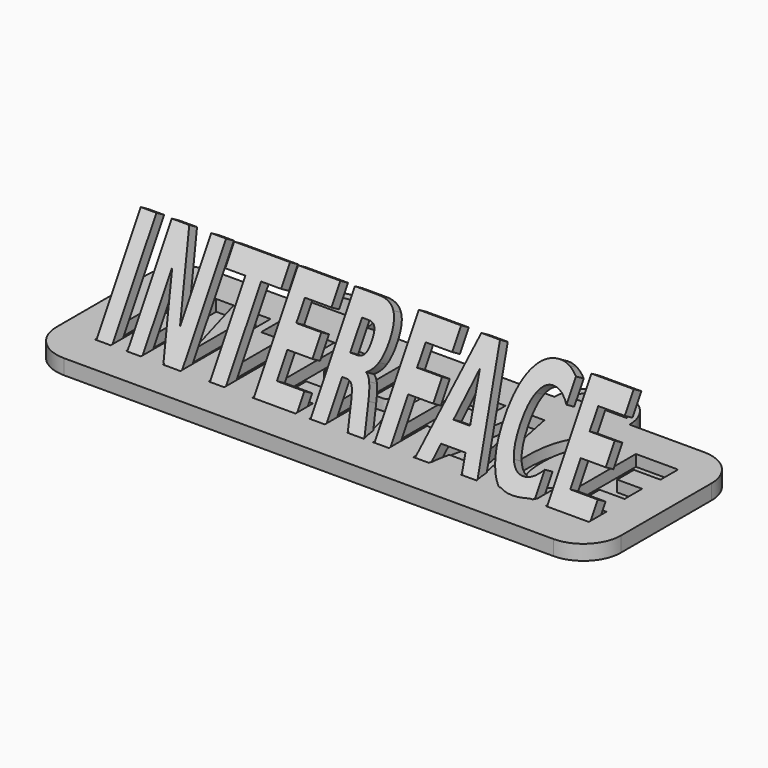
from build123d import *

# Parameters (mm, degrees)
EXTRUDE003_DEPTH     = 3
EXTRUDE010_DEPTH     = 3
EXTRUDE006_DEPTH     = 3
EXTRUDE001_DEPTH     = 3
EXTRUDE004_DEPTH     = 3
EXTRUDE005_DEPTH     = 3
EXTRUDE002_DEPTH     = 3
EXTRUDE009_DEPTH     = 3
EXTRUDE_DEPTH        = 3
EXTRUDE008_DEPTH     = 3
EXTRUDE007_DEPTH     = 3
EXTRUDE011_DEPTH     = 4
PAD_DEPTH            = 4
EXTRUDE015_DEPTH     = 3
EXTRUDE022_DEPTH     = 3
EXTRUDE018_DEPTH     = 3
EXTRUDE013_DEPTH     = 3
EXTRUDE016_DEPTH     = 3
EXTRUDE017_DEPTH     = 3
EXTRUDE014_DEPTH     = 3
EXTRUDE021_DEPTH     = 3
EXTRUDE012_DEPTH     = 3
EXTRUDE020_DEPTH     = 3
EXTRUDE019_DEPTH     = 3
FUSION001_ROLL_ANGLE = 59.5259


with BuildPart() as extrude003:
    # path3417 → Extrude003 (new body)
    with BuildSketch(Plane(origin=(77.497303, -65.455557, 0), x_dir=(0, -1, 0), z_dir=(0, 0, -1))):
        with BuildLine():
            add(Edge.make_bspline(
                [(-14.971756, 5.721334), (-14.971756, -5.484069)],
                knots=[0, 0, 54.14418, 54.14418], degree=1))
            add(Edge.make_bspline(
                [(-14.971756, -5.484069), (-9.135482, -5.484069)],
                knots=[0, 0, 15.16453, 15.16453], degree=1))
            add(Edge.make_bspline(
                [(-9.135482, -5.484069), (-9.135482, 1.569188)],
                knots=[0, 0, 34.08113, 34.08113], degree=1))
            add(Edge.make_bspline(
                [(-9.135482, 1.569188), (-3.55993, 1.569188)],
                knots=[0, 0, 14.48709, 14.48709], degree=1))
            add(Edge.make_bspline(
                [(-3.55993, 1.569188), (-3.55993, -5.063462)],
                knots=[0, 0, 32.04877, 32.04877], degree=1))
            add(Edge.make_bspline(
                [(-3.55993, -5.063462), (2.276348, -5.063462)],
                knots=[0, 0, 15.16454, 15.16454], degree=1))
            add(Edge.make_bspline(
                [(2.276348, -5.063462), (2.276348, 1.569188)],
                knots=[0, 0, 32.04877, 32.04877], degree=1))
            add(Edge.make_bspline(
                [(2.276348, 1.569188), (9.135478, 1.569188)],
                knots=[0, 0, 17.82224, 17.82224], degree=1))
            add(Edge.make_bspline(
                [(9.135478, 1.569188), (9.135478, -5.721334)],
                knots=[0, 0, 35.22759, 35.22759], degree=1))
            add(Edge.make_bspline(
                [(9.135478, -5.721334), (14.971756, -5.721334)],
                knots=[0, 0, 15.16454, 15.16454], degree=1))
            add(Edge.make_bspline(
                [(14.971756, -5.721334), (14.971756, 5.721334)],
                knots=[0, 0, 55.29064, 55.29064], degree=1))
            add(Edge.make_bspline(
                [(14.971756, 5.721334), (-14.971756, 5.721334)],
                knots=[0, 0, 77.80294, 77.80294], degree=1))
        make_face()
    extrude(amount=-EXTRUDE003_DEPTH)


with BuildPart() as extrude010:
    # path3427 → Extrude010 (new body)
    with BuildSketch(Plane(origin=(155.449799, -65.455557, 0), x_dir=(0, -1, 0), z_dir=(0, 0, -1))):
        with BuildLine():
            add(Edge.make_bspline(
                [(-14.971756, 5.721334), (-14.971756, -5.484069)],
                knots=[0, 0, 54.14418, 54.14418], degree=1))
            add(Edge.make_bspline(
                [(-14.971756, -5.484069), (-9.135482, -5.484069)],
                knots=[0, 0, 15.16453, 15.16453], degree=1))
            add(Edge.make_bspline(
                [(-9.135482, -5.484069), (-9.135482, 1.569188)],
                knots=[0, 0, 34.08113, 34.08113], degree=1))
            add(Edge.make_bspline(
                [(-9.135482, 1.569188), (-3.55993, 1.569188)],
                knots=[0, 0, 14.48709, 14.48709], degree=1))
            add(Edge.make_bspline(
                [(-3.55993, 1.569188), (-3.55993, -5.063462)],
                knots=[0, 0, 32.04877, 32.04877], degree=1))
            add(Edge.make_bspline(
                [(-3.55993, -5.063462), (2.276348, -5.063462)],
                knots=[0, 0, 15.16454, 15.16454], degree=1))
            add(Edge.make_bspline(
                [(2.276348, -5.063462), (2.276348, 1.569188)],
                knots=[0, 0, 32.04877, 32.04877], degree=1))
            add(Edge.make_bspline(
                [(2.276348, 1.569188), (9.135478, 1.569188)],
                knots=[0, 0, 17.82224, 17.82224], degree=1))
            add(Edge.make_bspline(
                [(9.135478, 1.569188), (9.135478, -5.721334)],
                knots=[0, 0, 35.22759, 35.22759], degree=1))
            add(Edge.make_bspline(
                [(9.135478, -5.721334), (14.971756, -5.721334)],
                knots=[0, 0, 15.16454, 15.16454], degree=1))
            add(Edge.make_bspline(
                [(14.971756, -5.721334), (14.971756, 5.721334)],
                knots=[0, 0, 55.29064, 55.29064], degree=1))
            add(Edge.make_bspline(
                [(14.971756, 5.721334), (-14.971756, 5.721334)],
                knots=[0, 0, 77.80294, 77.80294], degree=1))
        make_face()
    extrude(amount=-EXTRUDE010_DEPTH)


with BuildPart() as extrude006:
    # path3421 → Extrude006 (new body)
    with BuildSketch(Plane(origin=(109.47422, -65.455557, 0), x_dir=(0, -1, 0), z_dir=(0, 0, -1))):
        with BuildLine():
            add(Edge.make_bspline(
                [(-14.971756, 5.6027), (-14.971756, -5.6027)],
                knots=[0, 0, 54.14417, 54.14417], degree=1))
            add(Edge.make_bspline(
                [(-14.971756, -5.6027), (-9.135482, -5.6027)],
                knots=[0, 0, 15.16453, 15.16453], degree=1))
            add(Edge.make_bspline(
                [(-9.135482, -5.6027), (-9.135482, 1.450554)],
                knots=[0, 0, 34.08112, 34.08112], degree=1))
            add(Edge.make_bspline(
                [(-9.135482, 1.450554), (-3.55993, 1.450554)],
                knots=[0, 0, 14.48709, 14.48709], degree=1))
            add(Edge.make_bspline(
                [(-3.55993, 1.450554), (-3.55993, -5.182093)],
                knots=[0, 0, 32.04876, 32.04876], degree=1))
            add(Edge.make_bspline(
                [(-3.55993, -5.182093), (2.276348, -5.182093)],
                knots=[0, 0, 15.16454, 15.16454], degree=1))
            add(Edge.make_bspline(
                [(2.276348, -5.182093), (2.276348, 1.450554)],
                knots=[0, 0, 32.04876, 32.04876], degree=1))
            add(Edge.make_bspline(
                [(2.276348, 1.450554), (14.971756, 1.450554)],
                knots=[0, 0, 32.98678, 32.98678], degree=1))
            add(Edge.make_bspline(
                [(14.971756, 1.450554), (14.971756, 5.6027)],
                knots=[0, 0, 20.06305, 20.06305], degree=1))
            add(Edge.make_bspline(
                [(14.971756, 5.6027), (-14.971756, 5.6027)],
                knots=[0, 0, 77.80294, 77.80294], degree=1))
        make_face()
    extrude(amount=-EXTRUDE006_DEPTH)


with BuildPart() as extrude001:
    # path3413 → Extrude001 (new body)
    with BuildSketch(Plane(origin=(45.428715, -65.455557, 0), x_dir=(0, -1, 0), z_dir=(0, 0, -1))):
        with BuildLine():
            add(Edge.make_bspline(
                [(-14.971756, 7.215028), (-14.971756, 2.577566)],
                knots=[0, 0, 22.40808, 22.40808], degree=1))
            add(Edge.make_bspline(
                [(-14.971756, 2.577566), (5.565519, -3.278578)],
                knots=[0, 0, 60.400825, 60.400825], degree=1))
            add(Edge.make_bspline(
                [(5.565519, -3.278578), (-14.971756, -3.278578)],
                knots=[0, 0, 53.36249, 53.36249], degree=1))
            add(Edge.make_bspline(
                [(-14.971756, -3.278578), (-14.971756, -7.215028)],
                knots=[0, 0, 19.02081, 19.02081], degree=1))
            add(Edge.make_bspline(
                [(-14.971756, -7.215028), (14.971756, -7.215028)],
                knots=[0, 0, 77.80294, 77.80294], degree=1))
            add(Edge.make_bspline(
                [(14.971756, -7.215028), (14.971756, -2.577566)],
                knots=[0, 0, 22.40808, 22.40808], degree=1))
            add(Edge.make_bspline(
                [(14.971756, -2.577566), (-5.565523, 3.278576)],
                knots=[0, 0, 60.400829, 60.400829], degree=1))
            add(Edge.make_bspline(
                [(-5.565523, 3.278576), (14.971756, 3.278576)],
                knots=[0, 0, 53.3625, 53.3625], degree=1))
            add(Edge.make_bspline(
                [(14.971756, 3.278576), (14.971756, 7.215028)],
                knots=[0, 0, 19.02082, 19.02082], degree=1))
            add(Edge.make_bspline(
                [(14.971756, 7.215028), (-14.971756, 7.215028)],
                knots=[0, 0, 77.80294, 77.80294], degree=1))
        make_face()
    extrude(amount=-EXTRUDE001_DEPTH)


with BuildPart() as extrude004:
    # path3419 → Extrude004 (new body)
    with BuildSketch(Plane(origin=(93.119076, -59.920118, 0), x_dir=(0, 1, 0), z_dir=(0, 0, 1))):
        with BuildLine():
            add(Edge.make_bspline(
                [(-3.840713, 0.345113), (-3.840713, -0.959847), (-2.938196, -1.520656)],
                knots=[0, 0, 0, 1, 1, 1], degree=2))
            add(Edge.make_bspline(
                [(-2.938196, -1.520656), (-2.035676, -2.092251), (0.030083, -2.092251)],
                knots=[0, 0, 0, 1, 1, 1], degree=2))
            add(Edge.make_bspline(
                [(0.030083, -2.092251), (2.07579, -2.092251), (2.958251, -1.520656)],
                knots=[0, 0, 0, 1, 1, 1], degree=2))
            add(Edge.make_bspline(
                [(2.958251, -1.520656), (3.840713, -0.959847), (3.840713, 0.345113)],
                knots=[0, 0, 0, 1, 1, 1], degree=2))
            add(Edge.make_bspline(
                [(3.840713, 0.345113), (3.840713, 2.092251)],
                knots=[0, 0, 8.44212, 8.44212], degree=1))
            add(Edge.make_bspline(
                [(3.840713, 2.092251), (-3.840713, 2.092251)],
                knots=[0, 0, 19.95883, 19.95883], degree=1))
            add(Edge.make_bspline(
                [(-3.840713, 2.092251), (-3.840713, 0.345113)],
                knots=[0, 0, 8.44212, 8.44212], degree=1))
        make_face()
    extrude(amount=EXTRUDE004_DEPTH)


with BuildPart() as cut:
    # path3419001 → Extrude005 (new body)
    with BuildSketch(Plane(origin=(94.143631, -65.455557, 0), x_dir=(0, -1, 0), z_dir=(0, 0, -1))):
        with BuildLine():
            add(Edge.make_bspline(
                [(3.640151, 3.116806), (14.971756, 3.116806)],
                knots=[0, 0, 29.44318, 29.44318], degree=1))
            add(Edge.make_bspline(
                [(14.971756, 3.116806), (14.971756, 7.268952)],
                knots=[0, 0, 20.06305, 20.06305], degree=1))
            add(Edge.make_bspline(
                [(14.971756, 7.268952), (-14.971756, 7.268952)],
                knots=[0, 0, 77.80294, 77.80294], degree=1))
            add(Edge.make_bspline(
                [(-14.971756, 7.268952), (-14.971756, 0.927492)],
                knots=[0, 0, 30.64175, 30.64175], degree=1))
            add(Edge.make_bspline(
                [(-14.971756, 0.927492), (-14.971756, -2.254023), (-12.986218, -3.731538)],
                knots=[0, 0, 0, 1, 1, 1], degree=2))
            add(Edge.make_bspline(
                [(-12.986218, -3.731538), (-11.000681, -5.21984), (-6.708714, -5.21984)],
                knots=[0, 0, 0, 1, 1, 1], degree=2))
            add(Edge.make_bspline(
                [(-6.708714, -5.21984), (-3.740435, -5.21984), (-1.835122, -4.443335)],
                knots=[0, 0, 0, 1, 1, 1], degree=2))
            add(Edge.make_bspline(
                [(-1.835122, -4.443335), (0.070195, -3.677616), (0.972712, -2.124604)],
                knots=[0, 0, 0, 1, 1, 1], degree=2))
            add(Edge.make_bspline(
                [(0.972712, -2.124604), (1.333718, -2.976604), (2.617299, -3.645261)],
                knots=[0, 0, 0, 1, 1, 1], degree=2))
            add(Edge.make_bspline(
                [(2.617299, -3.645261), (3.880821, -4.324702), (6.468039, -5.01493)],
                knots=[0, 0, 0, 1, 1, 1], degree=2))
            add(Edge.make_bspline(
                [(6.468039, -5.01493), (14.971756, -7.268952)],
                knots=[0, 0, 24.633901, 24.633901], degree=1))
            add(Edge.make_bspline(
                [(14.971756, -7.268952), (14.971756, -2.847187)],
                knots=[0, 0, 21.36584, 21.36584], degree=1))
            add(Edge.make_bspline(
                [(14.971756, -2.847187), (7.531001, -0.884352)],
                knots=[0, 0, 21.534552, 21.534552], degree=1))
            add(Edge.make_bspline(
                [(7.531001, -0.884352), (5.284738, -0.291191), (4.462442, 0.323544)],
                knots=[0, 0, 0, 1, 1, 1], degree=2))
            add(Edge.make_bspline(
                [(4.462442, 0.323544), (3.640151, 0.927492), (3.640151, 1.941263)],
                knots=[0, 0, 0, 1, 1, 1], degree=2))
            add(Edge.make_bspline(
                [(3.640151, 1.941263), (3.640151, 3.116806)],
                knots=[0, 0, 5.68019, 5.68019], degree=1))
        make_face()
    extrude(amount=-EXTRUDE005_DEPTH)

    # Cut: cut Extrude004
    add(extrude004.part, mode=Mode.SUBTRACT)


with BuildPart() as extrude002:
    # path3415 → Extrude002 (new body)
    with BuildSketch(Plane(origin=(62.220643, -65.455557, 0), x_dir=(0, -1, 0), z_dir=(0, 0, -1))):
        with BuildLine():
            add(Edge.make_bspline(
                [(-14.971756, 7.419939), (-14.971756, -7.419939)],
                knots=[0, 0, 71.70586, 71.70586], degree=1))
            add(Edge.make_bspline(
                [(-14.971756, -7.419939), (-9.135482, -7.419939)],
                knots=[0, 0, 15.16453, 15.16453], degree=1))
            add(Edge.make_bspline(
                [(-9.135482, -7.419939), (-9.135482, -2.081465)],
                knots=[0, 0, 25.79535, 25.79535], degree=1))
            add(Edge.make_bspline(
                [(-9.135482, -2.081465), (14.971756, -2.081465)],
                knots=[0, 0, 62.63841, 62.63841], degree=1))
            add(Edge.make_bspline(
                [(14.971756, -2.081465), (14.971756, 2.070681)],
                knots=[0, 0, 20.06305, 20.06305], degree=1))
            add(Edge.make_bspline(
                [(14.971756, 2.070681), (-9.135482, 2.070681)],
                knots=[0, 0, 62.63841, 62.63841], degree=1))
            add(Edge.make_bspline(
                [(-9.135482, 2.070681), (-9.135482, 7.419939)],
                knots=[0, 0, 25.84746, 25.84746], degree=1))
            add(Edge.make_bspline(
                [(-9.135482, 7.419939), (-14.971756, 7.419939)],
                knots=[0, 0, 15.16453, 15.16453], degree=1))
        make_face()
    extrude(amount=-EXTRUDE002_DEPTH)


with BuildPart() as extrude009:
    # path3425 → Extrude009 (new body)
    with BuildSketch(Plane(origin=(139.428989, -65.475613, 0), x_dir=(0, -1, 0), z_dir=(0, 0, -1))):
        with BuildLine():
            add(Edge.make_bspline(
                [(13.307114, -6.848344), (14.41019, -5.705156), (14.971756, -4.464905)],
                knots=[0, 0, 0, 1, 1, 1], degree=2))
            add(Edge.make_bspline(
                [(14.971756, -4.464905), (15.533322, -3.224653), (15.533322, -1.876555)],
                knots=[0, 0, 0, 1, 1, 1], degree=2))
            add(Edge.make_bspline(
                [(15.533322, -1.876555), (15.533322, 2.146174), (11.361687, 4.49726)],
                knots=[0, 0, 0, 1, 1, 1], degree=2))
            add(Edge.make_bspline(
                [(11.361687, 4.49726), (7.169996, 6.848344), (0.010026, 6.848344)],
                knots=[0, 0, 0, 1, 1, 1], degree=2))
            add(Edge.make_bspline(
                [(0.010026, 6.848344), (-7.169999, 6.848344), (-11.341631, 4.49726)],
                knots=[0, 0, 0, 1, 1, 1], degree=2))
            add(Edge.make_bspline(
                [(-11.341631, 4.49726), (-15.533322, 2.146174), (-15.533322, -1.876555)],
                knots=[0, 0, 0, 1, 1, 1], degree=2))
            add(Edge.make_bspline(
                [(-15.533322, -1.876555), (-15.533322, -3.224653), (-14.971756, -4.464905)],
                knots=[0, 0, 0, 1, 1, 1], degree=2))
            add(Edge.make_bspline(
                [(-14.971756, -4.464905), (-14.41019, -5.705156), (-13.307114, -6.848344)],
                knots=[0, 0, 0, 1, 1, 1], degree=2))
            add(Edge.make_bspline(
                [(-13.307114, -6.848344), (-7.10983, -6.848344)],
                knots=[0, 0, 16.10255, 16.10255], degree=1))
            add(Edge.make_bspline(
                [(-7.10983, -6.848344), (-8.573912, -5.694372), (-9.255817, -4.572753)],
                knots=[0, 0, 0, 1, 1, 1], degree=2))
            add(Edge.make_bspline(
                [(-9.255817, -4.572753), (-9.937718, -3.451134), (-9.937718, -2.210882)],
                knots=[0, 0, 0, 1, 1, 1], degree=2))
            add(Edge.make_bspline(
                [(-9.937718, -2.210882), (-9.937718, 0.010784), (-7.290335, 1.283389)],
                knots=[0, 0, 0, 1, 1, 1], degree=2))
            add(Edge.make_bspline(
                [(-7.290335, 1.283389), (-4.642951, 2.555996), (0.010026, 2.555996)],
                knots=[0, 0, 0, 1, 1, 1], degree=2))
            add(Edge.make_bspline(
                [(0.010026, 2.555996), (4.642947, 2.555996), (7.290331, 1.283389)],
                knots=[0, 0, 0, 1, 1, 1], degree=2))
            add(Edge.make_bspline(
                [(7.290331, 1.283389), (9.937715, 0.010784), (9.937715, -2.210882)],
                knots=[0, 0, 0, 1, 1, 1], degree=2))
            add(Edge.make_bspline(
                [(9.937715, -2.210882), (9.937715, -3.451134), (9.255813, -4.572753)],
                knots=[0, 0, 0, 1, 1, 1], degree=2))
            add(Edge.make_bspline(
                [(9.255813, -4.572753), (8.573912, -5.694372), (7.10983, -6.848344)],
                knots=[0, 0, 0, 1, 1, 1], degree=2))
            add(Edge.make_bspline(
                [(7.10983, -6.848344), (13.307114, -6.848344)],
                knots=[0, 0, 16.10255, 16.10255], degree=1))
        make_face()
    extrude(amount=-EXTRUDE009_DEPTH)


with BuildPart() as extrude_body:
    # path3411 → Extrude (new body)
    with BuildSketch(Plane(origin=(32.050179, -65.455557, 0), x_dir=(0, -1, 0), z_dir=(0, 0, -1))):
        with BuildLine():
            add(Edge.make_bspline(
                [(-14.971756, 2.076073), (-14.971756, -2.076073)],
                knots=[0, 0, 20.06305, 20.06305], degree=1))
            add(Edge.make_bspline(
                [(-14.971756, -2.076073), (14.971756, -2.076073)],
                knots=[0, 0, 77.80294, 77.80294], degree=1))
            add(Edge.make_bspline(
                [(14.971756, -2.076073), (14.971756, 2.076073)],
                knots=[0, 0, 20.06305, 20.06305], degree=1))
            add(Edge.make_bspline(
                [(14.971756, 2.076073), (-14.971756, 2.076073)],
                knots=[0, 0, 77.80294, 77.80294], degree=1))
        make_face()
    extrude(amount=-EXTRUDE_DEPTH)


with BuildPart() as extrude008:
    # path3423001 → Extrude008 (new body)
    with BuildSketch(Plane(origin=(122.944427, -63.45999, 0), x_dir=(0, 1, 0), z_dir=(0, 0, 1))):
        with BuildLine():
            add(Edge.make_bspline(
                [(-5.956613, 2.20549), (-5.956613, -2.20549)],
                knots=[0, 0, 21.31373, 21.31373], degree=1))
            add(Edge.make_bspline(
                [(-5.956613, -2.20549), (5.956613, -0.005392)],
                knots=[0, 0, 32.729043, 32.729043], degree=1))
            add(Edge.make_bspline(
                [(5.956613, -0.005392), (-5.956613, 2.20549)],
                knots=[0, 0, 32.746006, 32.746006], degree=1))
        make_face()
    extrude(amount=EXTRUDE008_DEPTH)


with BuildPart() as fusion:
    # path3423 → Extrude007 (new body)
    with BuildSketch(Plane(origin=(122.944427, -65.455557, 0), x_dir=(0, -1, 0), z_dir=(0, 0, -1))):
        with BuildLine():
            add(Edge.make_bspline(
                [(9.516539, -3.251614), (9.516539, 3.240832)],
                knots=[0, 0, 31.37131, 31.37131], degree=1))
            add(Edge.make_bspline(
                [(9.516539, 3.240832), (14.971756, 4.265387)],
                knots=[0, 0, 15.014087, 15.014087], degree=1))
            add(Edge.make_bspline(
                [(14.971756, 4.265387), (14.971756, 8.439102)],
                knots=[0, 0, 20.16727, 20.16727], degree=1))
            add(Edge.make_bspline(
                [(14.971756, 8.439102), (-14.971756, 2.475111)],
                knots=[0, 0, 82.968457, 82.968457], degree=1))
            add(Edge.make_bspline(
                [(-14.971756, 2.475111), (-14.971756, -2.475109)],
                knots=[0, 0, 23.91932, 23.91932], degree=1))
            add(Edge.make_bspline(
                [(-14.971756, -2.475109), (14.971756, -8.439102)],
                knots=[0, 0, 82.96846, 82.96846], degree=1))
            add(Edge.make_bspline(
                [(14.971756, -8.439102), (14.971756, -4.265385)],
                knots=[0, 0, 20.16728, 20.16728], degree=1))
            add(Edge.make_bspline(
                [(14.971756, -4.265385), (9.516539, -3.251614)],
                knots=[0, 0, 14.996986, 14.996986], degree=1))
        make_face()
    extrude(amount=-EXTRUDE007_DEPTH)

    # Cut001: cut Extrude008
    add(extrude008.part, mode=Mode.SUBTRACT)

    # Fusion: union Extrude003, Extrude010, Extrude006, Extrude001, Cut, Extrude002, Extrude009, Extrude body
    add(extrude003.part)
    add(extrude010.part)
    add(extrude006.part)
    add(extrude001.part)
    add(cut.part)
    add(extrude002.part)
    add(extrude009.part)
    add(extrude_body.part)


with BuildPart() as fusion_1:
    # Fusion placement: moved
    add(fusion.part.moved(Location((0, 0, 1))))


with BuildPart() as pad:
    # Sketch → Extrude011 (new body)
    with BuildSketch(Plane.XY):
        with BuildLine():
            Line((30.210015, -41.003808), (160.210015, -41.003808))
            ThreePointArc((170.210015, -51.003808), (167.281082, -43.93274), (160.210015, -41.003808))
            Line((170.210015, -51.003808), (170.210015, -81.003808))
            ThreePointArc((160.210015, -91.003808), (167.281082, -88.074875), (170.210015, -81.003808))
            Line((160.210015, -91.003808), (30.210015, -91.003808))
            ThreePointArc((20.210015, -81.003808), (23.138947, -88.074875), (30.210015, -91.003808))
            Line((20.210015, -81.003808), (20.210015, -51.003808))
            ThreePointArc((30.210015, -41.003808), (23.138947, -43.93274), (20.210015, -51.003808))
        make_face()
    extrude(amount=EXTRUDE011_DEPTH)

    # Cut002: cut Fusion
    add(fusion_1.part, mode=Mode.SUBTRACT)

    # Sketch001 → Pad (new body)
    with BuildSketch(Plane.XY.offset(4)):
        with BuildLine():
            ThreePointArc((70.71647, -41.358116), (60.71647, -31.358116), (50.71647, -41.358116))
            Line((50.71647, -41.358116), (70.71647, -41.358116))
        make_face()
        with BuildLine():
            ThreePointArc((68.462437, -39.358116), (60.71647, -33.358116), (52.970504, -39.358116))
            Line((52.970504, -39.358116), (68.462437, -39.358116))
        make_face(mode=Mode.SUBTRACT)
        with BuildLine():
            ThreePointArc((140.464722, -41.075526), (130.464722, -31.075526), (120.464722, -41.075526))
            Line((120.464722, -41.075526), (140.464722, -41.075526))
        make_face()
        with BuildLine():
            ThreePointArc((138.210688, -39.075526), (130.464722, -33.075526), (122.718755, -39.075526))
            Line((138.210688, -39.075526), (122.718755, -39.075526))
        make_face(mode=Mode.SUBTRACT)
    extrude(amount=-PAD_DEPTH)


with BuildPart() as extrude015:
    # path3423005 → Extrude015 (new body)
    with BuildSketch(Plane(origin=(77.497303, -65.455557, 0), x_dir=(0, -1, 0), z_dir=(0, 0, -1))):
        with BuildLine():
            add(Edge.make_bspline(
                [(-14.971756, 5.721334), (-14.971756, -5.484069)],
                knots=[0, 0, 54.14418, 54.14418], degree=1))
            add(Edge.make_bspline(
                [(-14.971756, -5.484069), (-9.135482, -5.484069)],
                knots=[0, 0, 15.16453, 15.16453], degree=1))
            add(Edge.make_bspline(
                [(-9.135482, -5.484069), (-9.135482, 1.569188)],
                knots=[0, 0, 34.08113, 34.08113], degree=1))
            add(Edge.make_bspline(
                [(-9.135482, 1.569188), (-3.55993, 1.569188)],
                knots=[0, 0, 14.48709, 14.48709], degree=1))
            add(Edge.make_bspline(
                [(-3.55993, 1.569188), (-3.55993, -5.063462)],
                knots=[0, 0, 32.04877, 32.04877], degree=1))
            add(Edge.make_bspline(
                [(-3.55993, -5.063462), (2.276348, -5.063462)],
                knots=[0, 0, 15.16454, 15.16454], degree=1))
            add(Edge.make_bspline(
                [(2.276348, -5.063462), (2.276348, 1.569188)],
                knots=[0, 0, 32.04877, 32.04877], degree=1))
            add(Edge.make_bspline(
                [(2.276348, 1.569188), (9.135478, 1.569188)],
                knots=[0, 0, 17.82224, 17.82224], degree=1))
            add(Edge.make_bspline(
                [(9.135478, 1.569188), (9.135478, -5.721334)],
                knots=[0, 0, 35.22759, 35.22759], degree=1))
            add(Edge.make_bspline(
                [(9.135478, -5.721334), (14.971756, -5.721334)],
                knots=[0, 0, 15.16454, 15.16454], degree=1))
            add(Edge.make_bspline(
                [(14.971756, -5.721334), (14.971756, 5.721334)],
                knots=[0, 0, 55.29064, 55.29064], degree=1))
            add(Edge.make_bspline(
                [(14.971756, 5.721334), (-14.971756, 5.721334)],
                knots=[0, 0, 77.80294, 77.80294], degree=1))
        make_face()
    extrude(amount=-EXTRUDE015_DEPTH)


with BuildPart() as extrude022:
    # path3423012 → Extrude022 (new body)
    with BuildSketch(Plane(origin=(155.449799, -65.455557, 0), x_dir=(0, -1, 0), z_dir=(0, 0, -1))):
        with BuildLine():
            add(Edge.make_bspline(
                [(-14.971756, 5.721334), (-14.971756, -5.484069)],
                knots=[0, 0, 54.14418, 54.14418], degree=1))
            add(Edge.make_bspline(
                [(-14.971756, -5.484069), (-9.135482, -5.484069)],
                knots=[0, 0, 15.16453, 15.16453], degree=1))
            add(Edge.make_bspline(
                [(-9.135482, -5.484069), (-9.135482, 1.569188)],
                knots=[0, 0, 34.08113, 34.08113], degree=1))
            add(Edge.make_bspline(
                [(-9.135482, 1.569188), (-3.55993, 1.569188)],
                knots=[0, 0, 14.48709, 14.48709], degree=1))
            add(Edge.make_bspline(
                [(-3.55993, 1.569188), (-3.55993, -5.063462)],
                knots=[0, 0, 32.04877, 32.04877], degree=1))
            add(Edge.make_bspline(
                [(-3.55993, -5.063462), (2.276348, -5.063462)],
                knots=[0, 0, 15.16454, 15.16454], degree=1))
            add(Edge.make_bspline(
                [(2.276348, -5.063462), (2.276348, 1.569188)],
                knots=[0, 0, 32.04877, 32.04877], degree=1))
            add(Edge.make_bspline(
                [(2.276348, 1.569188), (9.135478, 1.569188)],
                knots=[0, 0, 17.82224, 17.82224], degree=1))
            add(Edge.make_bspline(
                [(9.135478, 1.569188), (9.135478, -5.721334)],
                knots=[0, 0, 35.22759, 35.22759], degree=1))
            add(Edge.make_bspline(
                [(9.135478, -5.721334), (14.971756, -5.721334)],
                knots=[0, 0, 15.16454, 15.16454], degree=1))
            add(Edge.make_bspline(
                [(14.971756, -5.721334), (14.971756, 5.721334)],
                knots=[0, 0, 55.29064, 55.29064], degree=1))
            add(Edge.make_bspline(
                [(14.971756, 5.721334), (-14.971756, 5.721334)],
                knots=[0, 0, 77.80294, 77.80294], degree=1))
        make_face()
    extrude(amount=-EXTRUDE022_DEPTH)


with BuildPart() as extrude018:
    # path3423008 → Extrude018 (new body)
    with BuildSketch(Plane(origin=(109.47422, -65.455557, 0), x_dir=(0, -1, 0), z_dir=(0, 0, -1))):
        with BuildLine():
            add(Edge.make_bspline(
                [(-14.971756, 5.6027), (-14.971756, -5.6027)],
                knots=[0, 0, 54.14417, 54.14417], degree=1))
            add(Edge.make_bspline(
                [(-14.971756, -5.6027), (-9.135482, -5.6027)],
                knots=[0, 0, 15.16453, 15.16453], degree=1))
            add(Edge.make_bspline(
                [(-9.135482, -5.6027), (-9.135482, 1.450554)],
                knots=[0, 0, 34.08112, 34.08112], degree=1))
            add(Edge.make_bspline(
                [(-9.135482, 1.450554), (-3.55993, 1.450554)],
                knots=[0, 0, 14.48709, 14.48709], degree=1))
            add(Edge.make_bspline(
                [(-3.55993, 1.450554), (-3.55993, -5.182093)],
                knots=[0, 0, 32.04876, 32.04876], degree=1))
            add(Edge.make_bspline(
                [(-3.55993, -5.182093), (2.276348, -5.182093)],
                knots=[0, 0, 15.16454, 15.16454], degree=1))
            add(Edge.make_bspline(
                [(2.276348, -5.182093), (2.276348, 1.450554)],
                knots=[0, 0, 32.04876, 32.04876], degree=1))
            add(Edge.make_bspline(
                [(2.276348, 1.450554), (14.971756, 1.450554)],
                knots=[0, 0, 32.98678, 32.98678], degree=1))
            add(Edge.make_bspline(
                [(14.971756, 1.450554), (14.971756, 5.6027)],
                knots=[0, 0, 20.06305, 20.06305], degree=1))
            add(Edge.make_bspline(
                [(14.971756, 5.6027), (-14.971756, 5.6027)],
                knots=[0, 0, 77.80294, 77.80294], degree=1))
        make_face()
    extrude(amount=-EXTRUDE018_DEPTH)


with BuildPart() as extrude013:
    # path3423003 → Extrude013 (new body)
    with BuildSketch(Plane(origin=(45.428715, -65.455557, 0), x_dir=(0, -1, 0), z_dir=(0, 0, -1))):
        with BuildLine():
            add(Edge.make_bspline(
                [(-14.971756, 7.215028), (-14.971756, 2.577566)],
                knots=[0, 0, 22.40808, 22.40808], degree=1))
            add(Edge.make_bspline(
                [(-14.971756, 2.577566), (5.565519, -3.278578)],
                knots=[0, 0, 60.400825, 60.400825], degree=1))
            add(Edge.make_bspline(
                [(5.565519, -3.278578), (-14.971756, -3.278578)],
                knots=[0, 0, 53.36249, 53.36249], degree=1))
            add(Edge.make_bspline(
                [(-14.971756, -3.278578), (-14.971756, -7.215028)],
                knots=[0, 0, 19.02081, 19.02081], degree=1))
            add(Edge.make_bspline(
                [(-14.971756, -7.215028), (14.971756, -7.215028)],
                knots=[0, 0, 77.80294, 77.80294], degree=1))
            add(Edge.make_bspline(
                [(14.971756, -7.215028), (14.971756, -2.577566)],
                knots=[0, 0, 22.40808, 22.40808], degree=1))
            add(Edge.make_bspline(
                [(14.971756, -2.577566), (-5.565523, 3.278576)],
                knots=[0, 0, 60.400829, 60.400829], degree=1))
            add(Edge.make_bspline(
                [(-5.565523, 3.278576), (14.971756, 3.278576)],
                knots=[0, 0, 53.3625, 53.3625], degree=1))
            add(Edge.make_bspline(
                [(14.971756, 3.278576), (14.971756, 7.215028)],
                knots=[0, 0, 19.02082, 19.02082], degree=1))
            add(Edge.make_bspline(
                [(14.971756, 7.215028), (-14.971756, 7.215028)],
                knots=[0, 0, 77.80294, 77.80294], degree=1))
        make_face()
    extrude(amount=-EXTRUDE013_DEPTH)


with BuildPart() as extrude016:
    # path3423006 → Extrude016 (new body)
    with BuildSketch(Plane(origin=(93.119076, -59.920118, 0), x_dir=(0, 1, 0), z_dir=(0, 0, 1))):
        with BuildLine():
            add(Edge.make_bspline(
                [(-3.840713, 0.345113), (-3.840713, -0.959847), (-2.938196, -1.520656)],
                knots=[0, 0, 0, 1, 1, 1], degree=2))
            add(Edge.make_bspline(
                [(-2.938196, -1.520656), (-2.035676, -2.092251), (0.030083, -2.092251)],
                knots=[0, 0, 0, 1, 1, 1], degree=2))
            add(Edge.make_bspline(
                [(0.030083, -2.092251), (2.07579, -2.092251), (2.958251, -1.520656)],
                knots=[0, 0, 0, 1, 1, 1], degree=2))
            add(Edge.make_bspline(
                [(2.958251, -1.520656), (3.840713, -0.959847), (3.840713, 0.345113)],
                knots=[0, 0, 0, 1, 1, 1], degree=2))
            add(Edge.make_bspline(
                [(3.840713, 0.345113), (3.840713, 2.092251)],
                knots=[0, 0, 8.44212, 8.44212], degree=1))
            add(Edge.make_bspline(
                [(3.840713, 2.092251), (-3.840713, 2.092251)],
                knots=[0, 0, 19.95883, 19.95883], degree=1))
            add(Edge.make_bspline(
                [(-3.840713, 2.092251), (-3.840713, 0.345113)],
                knots=[0, 0, 8.44212, 8.44212], degree=1))
        make_face()
    extrude(amount=EXTRUDE016_DEPTH)


with BuildPart() as cut003:
    # path3423007 → Extrude017 (new body)
    with BuildSketch(Plane(origin=(94.143631, -65.455557, 0), x_dir=(0, -1, 0), z_dir=(0, 0, -1))):
        with BuildLine():
            add(Edge.make_bspline(
                [(3.640151, 3.116806), (14.971756, 3.116806)],
                knots=[0, 0, 29.44318, 29.44318], degree=1))
            add(Edge.make_bspline(
                [(14.971756, 3.116806), (14.971756, 7.268952)],
                knots=[0, 0, 20.06305, 20.06305], degree=1))
            add(Edge.make_bspline(
                [(14.971756, 7.268952), (-14.971756, 7.268952)],
                knots=[0, 0, 77.80294, 77.80294], degree=1))
            add(Edge.make_bspline(
                [(-14.971756, 7.268952), (-14.971756, 0.927492)],
                knots=[0, 0, 30.64175, 30.64175], degree=1))
            add(Edge.make_bspline(
                [(-14.971756, 0.927492), (-14.971756, -2.254023), (-12.986218, -3.731538)],
                knots=[0, 0, 0, 1, 1, 1], degree=2))
            add(Edge.make_bspline(
                [(-12.986218, -3.731538), (-11.000681, -5.21984), (-6.708714, -5.21984)],
                knots=[0, 0, 0, 1, 1, 1], degree=2))
            add(Edge.make_bspline(
                [(-6.708714, -5.21984), (-3.740435, -5.21984), (-1.835122, -4.443335)],
                knots=[0, 0, 0, 1, 1, 1], degree=2))
            add(Edge.make_bspline(
                [(-1.835122, -4.443335), (0.070195, -3.677616), (0.972712, -2.124604)],
                knots=[0, 0, 0, 1, 1, 1], degree=2))
            add(Edge.make_bspline(
                [(0.972712, -2.124604), (1.333718, -2.976604), (2.617299, -3.645261)],
                knots=[0, 0, 0, 1, 1, 1], degree=2))
            add(Edge.make_bspline(
                [(2.617299, -3.645261), (3.880821, -4.324702), (6.468039, -5.01493)],
                knots=[0, 0, 0, 1, 1, 1], degree=2))
            add(Edge.make_bspline(
                [(6.468039, -5.01493), (14.971756, -7.268952)],
                knots=[0, 0, 24.633901, 24.633901], degree=1))
            add(Edge.make_bspline(
                [(14.971756, -7.268952), (14.971756, -2.847187)],
                knots=[0, 0, 21.36584, 21.36584], degree=1))
            add(Edge.make_bspline(
                [(14.971756, -2.847187), (7.531001, -0.884352)],
                knots=[0, 0, 21.534552, 21.534552], degree=1))
            add(Edge.make_bspline(
                [(7.531001, -0.884352), (5.284738, -0.291191), (4.462442, 0.323544)],
                knots=[0, 0, 0, 1, 1, 1], degree=2))
            add(Edge.make_bspline(
                [(4.462442, 0.323544), (3.640151, 0.927492), (3.640151, 1.941263)],
                knots=[0, 0, 0, 1, 1, 1], degree=2))
            add(Edge.make_bspline(
                [(3.640151, 1.941263), (3.640151, 3.116806)],
                knots=[0, 0, 5.68019, 5.68019], degree=1))
        make_face()
    extrude(amount=-EXTRUDE017_DEPTH)

    # Cut003: cut Extrude016
    add(extrude016.part, mode=Mode.SUBTRACT)


with BuildPart() as extrude014:
    # path3423004 → Extrude014 (new body)
    with BuildSketch(Plane(origin=(62.220643, -65.455557, 0), x_dir=(0, -1, 0), z_dir=(0, 0, -1))):
        with BuildLine():
            add(Edge.make_bspline(
                [(-14.971756, 7.419939), (-14.971756, -7.419939)],
                knots=[0, 0, 71.70586, 71.70586], degree=1))
            add(Edge.make_bspline(
                [(-14.971756, -7.419939), (-9.135482, -7.419939)],
                knots=[0, 0, 15.16453, 15.16453], degree=1))
            add(Edge.make_bspline(
                [(-9.135482, -7.419939), (-9.135482, -2.081465)],
                knots=[0, 0, 25.79535, 25.79535], degree=1))
            add(Edge.make_bspline(
                [(-9.135482, -2.081465), (14.971756, -2.081465)],
                knots=[0, 0, 62.63841, 62.63841], degree=1))
            add(Edge.make_bspline(
                [(14.971756, -2.081465), (14.971756, 2.070681)],
                knots=[0, 0, 20.06305, 20.06305], degree=1))
            add(Edge.make_bspline(
                [(14.971756, 2.070681), (-9.135482, 2.070681)],
                knots=[0, 0, 62.63841, 62.63841], degree=1))
            add(Edge.make_bspline(
                [(-9.135482, 2.070681), (-9.135482, 7.419939)],
                knots=[0, 0, 25.84746, 25.84746], degree=1))
            add(Edge.make_bspline(
                [(-9.135482, 7.419939), (-14.971756, 7.419939)],
                knots=[0, 0, 15.16453, 15.16453], degree=1))
        make_face()
    extrude(amount=-EXTRUDE014_DEPTH)


with BuildPart() as extrude021:
    # path3423011 → Extrude021 (new body)
    with BuildSketch(Plane(origin=(139.428989, -65.475613, 0), x_dir=(0, -1, 0), z_dir=(0, 0, -1))):
        with BuildLine():
            add(Edge.make_bspline(
                [(13.307114, -6.848344), (14.41019, -5.705156), (14.971756, -4.464905)],
                knots=[0, 0, 0, 1, 1, 1], degree=2))
            add(Edge.make_bspline(
                [(14.971756, -4.464905), (15.533322, -3.224653), (15.533322, -1.876555)],
                knots=[0, 0, 0, 1, 1, 1], degree=2))
            add(Edge.make_bspline(
                [(15.533322, -1.876555), (15.533322, 2.146174), (11.361687, 4.49726)],
                knots=[0, 0, 0, 1, 1, 1], degree=2))
            add(Edge.make_bspline(
                [(11.361687, 4.49726), (7.169996, 6.848344), (0.010026, 6.848344)],
                knots=[0, 0, 0, 1, 1, 1], degree=2))
            add(Edge.make_bspline(
                [(0.010026, 6.848344), (-7.169999, 6.848344), (-11.341631, 4.49726)],
                knots=[0, 0, 0, 1, 1, 1], degree=2))
            add(Edge.make_bspline(
                [(-11.341631, 4.49726), (-15.533322, 2.146174), (-15.533322, -1.876555)],
                knots=[0, 0, 0, 1, 1, 1], degree=2))
            add(Edge.make_bspline(
                [(-15.533322, -1.876555), (-15.533322, -3.224653), (-14.971756, -4.464905)],
                knots=[0, 0, 0, 1, 1, 1], degree=2))
            add(Edge.make_bspline(
                [(-14.971756, -4.464905), (-14.41019, -5.705156), (-13.307114, -6.848344)],
                knots=[0, 0, 0, 1, 1, 1], degree=2))
            add(Edge.make_bspline(
                [(-13.307114, -6.848344), (-7.10983, -6.848344)],
                knots=[0, 0, 16.10255, 16.10255], degree=1))
            add(Edge.make_bspline(
                [(-7.10983, -6.848344), (-8.573912, -5.694372), (-9.255817, -4.572753)],
                knots=[0, 0, 0, 1, 1, 1], degree=2))
            add(Edge.make_bspline(
                [(-9.255817, -4.572753), (-9.937718, -3.451134), (-9.937718, -2.210882)],
                knots=[0, 0, 0, 1, 1, 1], degree=2))
            add(Edge.make_bspline(
                [(-9.937718, -2.210882), (-9.937718, 0.010784), (-7.290335, 1.283389)],
                knots=[0, 0, 0, 1, 1, 1], degree=2))
            add(Edge.make_bspline(
                [(-7.290335, 1.283389), (-4.642951, 2.555996), (0.010026, 2.555996)],
                knots=[0, 0, 0, 1, 1, 1], degree=2))
            add(Edge.make_bspline(
                [(0.010026, 2.555996), (4.642947, 2.555996), (7.290331, 1.283389)],
                knots=[0, 0, 0, 1, 1, 1], degree=2))
            add(Edge.make_bspline(
                [(7.290331, 1.283389), (9.937715, 0.010784), (9.937715, -2.210882)],
                knots=[0, 0, 0, 1, 1, 1], degree=2))
            add(Edge.make_bspline(
                [(9.937715, -2.210882), (9.937715, -3.451134), (9.255813, -4.572753)],
                knots=[0, 0, 0, 1, 1, 1], degree=2))
            add(Edge.make_bspline(
                [(9.255813, -4.572753), (8.573912, -5.694372), (7.10983, -6.848344)],
                knots=[0, 0, 0, 1, 1, 1], degree=2))
            add(Edge.make_bspline(
                [(7.10983, -6.848344), (13.307114, -6.848344)],
                knots=[0, 0, 16.10255, 16.10255], degree=1))
        make_face()
    extrude(amount=-EXTRUDE021_DEPTH)


with BuildPart() as extrude012:
    # path3423002 → Extrude012 (new body)
    with BuildSketch(Plane(origin=(32.050179, -65.455557, 0), x_dir=(0, -1, 0), z_dir=(0, 0, -1))):
        with BuildLine():
            add(Edge.make_bspline(
                [(-14.971756, 2.076073), (-14.971756, -2.076073)],
                knots=[0, 0, 20.06305, 20.06305], degree=1))
            add(Edge.make_bspline(
                [(-14.971756, -2.076073), (14.971756, -2.076073)],
                knots=[0, 0, 77.80294, 77.80294], degree=1))
            add(Edge.make_bspline(
                [(14.971756, -2.076073), (14.971756, 2.076073)],
                knots=[0, 0, 20.06305, 20.06305], degree=1))
            add(Edge.make_bspline(
                [(14.971756, 2.076073), (-14.971756, 2.076073)],
                knots=[0, 0, 77.80294, 77.80294], degree=1))
        make_face()
    extrude(amount=-EXTRUDE012_DEPTH)


with BuildPart() as extrude020:
    # path3423010 → Extrude020 (new body)
    with BuildSketch(Plane(origin=(122.944427, -63.45999, 0), x_dir=(0, 1, 0), z_dir=(0, 0, 1))):
        with BuildLine():
            add(Edge.make_bspline(
                [(-5.956613, 2.20549), (-5.956613, -2.20549)],
                knots=[0, 0, 21.31373, 21.31373], degree=1))
            add(Edge.make_bspline(
                [(-5.956613, -2.20549), (5.956613, -0.005392)],
                knots=[0, 0, 32.729043, 32.729043], degree=1))
            add(Edge.make_bspline(
                [(5.956613, -0.005392), (-5.956613, 2.20549)],
                knots=[0, 0, 32.746006, 32.746006], degree=1))
        make_face()
    extrude(amount=EXTRUDE020_DEPTH)


with BuildPart() as fusion001:
    # path3423009 → Extrude019 (new body)
    with BuildSketch(Plane(origin=(122.944427, -65.455557, 0), x_dir=(0, -1, 0), z_dir=(0, 0, -1))):
        with BuildLine():
            add(Edge.make_bspline(
                [(9.516539, -3.251614), (9.516539, 3.240832)],
                knots=[0, 0, 31.37131, 31.37131], degree=1))
            add(Edge.make_bspline(
                [(9.516539, 3.240832), (14.971756, 4.265387)],
                knots=[0, 0, 15.014087, 15.014087], degree=1))
            add(Edge.make_bspline(
                [(14.971756, 4.265387), (14.971756, 8.439102)],
                knots=[0, 0, 20.16727, 20.16727], degree=1))
            add(Edge.make_bspline(
                [(14.971756, 8.439102), (-14.971756, 2.475111)],
                knots=[0, 0, 82.968457, 82.968457], degree=1))
            add(Edge.make_bspline(
                [(-14.971756, 2.475111), (-14.971756, -2.475109)],
                knots=[0, 0, 23.91932, 23.91932], degree=1))
            add(Edge.make_bspline(
                [(-14.971756, -2.475109), (14.971756, -8.439102)],
                knots=[0, 0, 82.96846, 82.96846], degree=1))
            add(Edge.make_bspline(
                [(14.971756, -8.439102), (14.971756, -4.265385)],
                knots=[0, 0, 20.16728, 20.16728], degree=1))
            add(Edge.make_bspline(
                [(14.971756, -4.265385), (9.516539, -3.251614)],
                knots=[0, 0, 14.996986, 14.996986], degree=1))
        make_face()
    extrude(amount=-EXTRUDE019_DEPTH)

    # Cut004: cut Extrude020
    add(extrude020.part, mode=Mode.SUBTRACT)

    # Fusion001: union Extrude015, Extrude022, Extrude018, Extrude013, Cut003, Extrude014, Extrude021, Extrude012
    add(extrude015.part)
    add(extrude022.part)
    add(extrude018.part)
    add(extrude013.part)
    add(cut003.part)
    add(extrude014.part)
    add(extrude021.part)
    add(extrude012.part)


with BuildPart() as fusion001_1:
    # Fusion001 roll: moved
    add(fusion001.part.rotate(Axis((0, 0, 0), (1, 0, 0)), FUSION001_ROLL_ANGLE))


with BuildPart() as fusion001_2:
    # Fusion001 placement: moved
    add(fusion001_1.part.moved(Location((0, -37.0531, 70.7955))))


solid = Compound([pad.part, fusion001_2.part])
